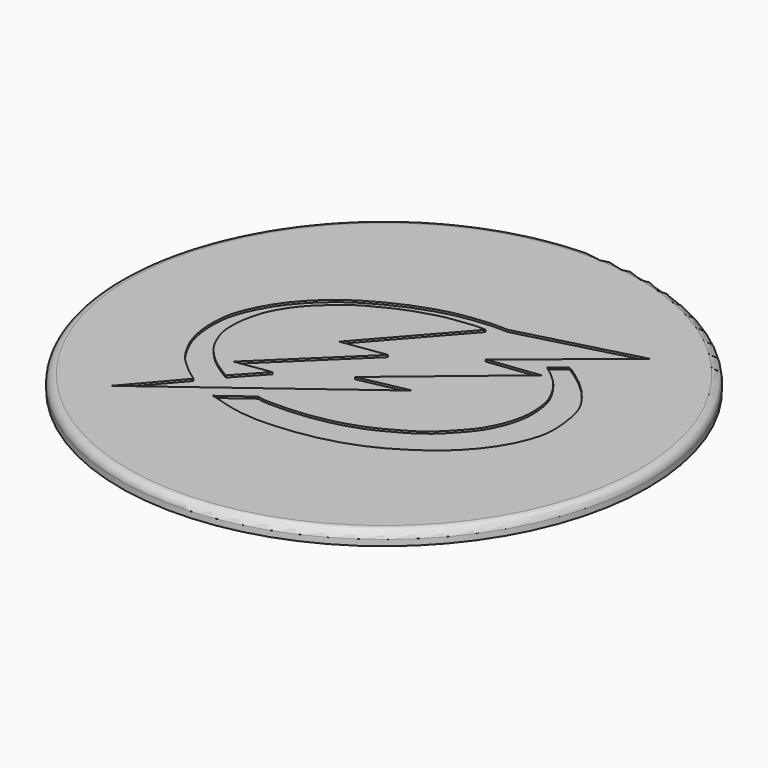
from build123d import *

# Parameters (mm, degrees)
F0_R     = 66.04
F1_DEPTH = 3.5
F3_DEPTH = 0.5
F4_R     = 2


with BuildPart() as f1:
    # F0 (on Top) → F1 (new body)
    with BuildSketch(Plane.XY):
        Circle(F0_R)
    extrude(amount=F1_DEPTH)

    # F2 (on face) → F3 (cut)
    with BuildSketch(Plane.XY.offset(3.5)):
        with BuildLine():
            Line((36.7589145899, 37.629019469), (7.088160608, 29.8062227666))
            add(Edge.make_bspline(
                [(-27.9188621789, -24.7298497707), (-28.6586928586, -24.2103901464), (-30.4148624686, -22.977325297), (-34.7839086401, -19.2292372163), (-36.7492639554, -15.8301967621), (-38.5813905625, -12.392258781), (-39.75259532, -7.49957565), (-39.8114737138, -2.8913390892), (-39.4153051917, 1.3872774793), (-37.155174617, 6.8463574778), (-34.2487020488, 11.5543521179), (-30.1449211522, 16.1966267345), (-24.8865606472, 20.5465305085), (-18.820652323, 23.9222079865), (-13.5893033373, 26.3447324713), (-6.2676210393, 28.8086948244), (-0.9973036761, 29.4594702935), (2.8494568659, 29.9332388479), (5.6501959782, 29.8493125043), (7.088160608, 29.8062227666)],
                knots=[0, 0, 0, 0, 0.0451249272, 0.1071150846, 0.1588573068, 0.2095718144, 0.267664136, 0.3232882023, 0.3768767861, 0.4394121671, 0.5007893365, 0.5650325207, 0.6332195526, 0.7010771123, 0.7641179487, 0.8361406793, 0.8960766014, 0.946643309, 1, 1, 1, 1], degree=3))
            Line((-27.9188621789, -24.7298497707), (-38.6472716928, -37.1904484928))
            add(Edge.make_bspline(
                [(8.680658415, -1.9040451152), (-7.0953182876, -13.6661795744), (-22.8712949902, -25.4283140336), (-38.6472716928, -37.1904484928)],
                knots=[0, 0, 0, 0, 59.0344241236, 59.0344241236, 59.0344241236, 59.0344241236], degree=3))
            Line((8.680658415, -1.9040451152), (-3.7240635138, -4.4464543462))
            Line((-3.7240635138, -4.4464543462), (24.2703761905, 18.8822448254))
            Line((24.2703761905, 18.8822448254), (11.5583296865, 17.3176843673))
            Line((11.5583296865, 17.3176843673), (36.7589145899, 37.629019469))
        make_face()
        with BuildLine():
            add(Edge.make_bspline(
                [(3.7381993607, 27.1198898554), (2.971135623, 27.1618474152), (1.2947530215, 27.2535437369), (-1.9863245634, 26.752964039), (-5.5830102518, 26.3936384961), (-8.1626603235, 25.6625858195), (-11.8819068257, 24.5992540716), (-15.194299707, 23.2915717189), (-18.3387248736, 21.7834257182), (-22.657889275, 19.4908286459), (-25.3334584396, 17.405984417), (-28.4560760539, 14.5877478565), (-31.1520888031, 11.8106881463), (-33.1981293641, 8.6361921113), (-34.8489244867, 5.4336172817), (-35.6717957614, 1.8976307489), (-36.1212606559, -0.7356813567), (-36.1055273874, -4.9327401117), (-35.284250801, -7.7228924909), (-33.7690554357, -11.151243353), (-31.7825018341, -13.6634363898), (-29.4483207392, -15.9985267381), (-27.0119624763, -17.7648035422), (-25.4106160526, -18.7590652994), (-24.3846229373, -19.3770721413), (-23.8800570369, -19.6809973568)],
                knots=[0, 0, 0, 0, 0.0370080786, 0.0808794576, 0.1262134195, 0.1655943936, 0.2123656254, 0.2575173754, 0.3025728065, 0.3550686508, 0.3996737986, 0.4482930207, 0.4956445603, 0.5418786203, 0.587545708, 0.6324346113, 0.6721602243, 0.720331977, 0.7617849857, 0.8074577834, 0.8504872685, 0.8941300827, 0.9355240772, 0.9682918418, 1, 1, 1, 1], degree=3))
            Line((3.7381993607, 27.1198898554), (-15.5056634386, 5.2878007289))
            Line((-15.5056634386, 5.2878007289), (-4.4998652302, 6.9099701941))
            Line((-4.4998652302, 6.9099701941), (-26.3297446072, -14.188955538))
            Line((-26.3297446072, -14.188955538), (-17.6175478846, -12.9048451781))
            Line((-17.6175478846, -12.9048451781), (-23.8800570369, -19.6809973568))
        make_face(mode=Mode.SUBTRACT)
        with BuildLine():
            add(Edge.make_bspline(
                [(23.0140855235, 22.1223023413), (23.6337480093, 21.7049911427), (25.0817865454, 20.7298107649), (28.3144677633, 17.8145217038), (30.5631850073, 14.3623327366), (31.9299956157, 11.4542653938), (32.4038757117, 8.878719599), (32.7918336503, 5.3554549599), (32.1630546429, 0.8710537681), (30.7342580485, -2.9112662617), (28.7888202269, -6.4806965762), (25.7872064292, -9.7882796528), (23.0901008337, -12.5984417239), (20.3259832239, -14.8008398541), (16.8563718909, -16.7655352132), (12.083012982, -19.4120821964), (6.6545909805, -21.2312151302), (2.6297224287, -22.1259203281), (-2.7686651604, -23.1002452156), (-11.2544630445, -23.2923264004), (-12.8249440359, -22.861325742), (-13.338916935, -22.7202717215)],
                knots=[0, 0, 0, 0, 0.0405040979, 0.0946507106, 0.1480773568, 0.1940198869, 0.2355227836, 0.2842322816, 0.3395597185, 0.3918333536, 0.4440264689, 0.4989766927, 0.5503408725, 0.5986057845, 0.650215388, 0.7114530865, 0.7735610236, 0.8254499534, 0.8879083382, 0.9633156487, 1, 1, 1, 1], degree=3))
            Line((-13.338916935, -22.7202717215), (-20.4509142786, -27.9752481729))
            add(Edge.make_bspline(
                [(-20.4509142786, -27.9752481729), (-18.8172337543, -28.4739563845), (-15.4699105031, -29.4957826029), (-9.8113094816, -30.5934467075), (-3.4476646051, -30.5276095836), (3.8323637699, -29.7792821906), (10.9948418748, -28.1270192234), (18.1616670883, -25.4269070755), (24.9613540992, -21.2618874253), (29.7707603508, -17.7083655535), (34.6400151481, -12.6535211177), (38.1350855825, -7.1300397484), (39.906954757, -2.6337329233), (40.7854535947, 1.4807883485), (40.3205082437, 6.8263907972), (39.2885733015, 12.3641756391), (35.9753768895, 17.0850121131), (32.6981331654, 20.6047877337), (28.1143591936, 23.9871411799), (26.8914743312, 24.6504593747), (26.4487545937, 24.8905997723)],
                knots=[0, 0, 0, 0, 0.0528863325, 0.1083612418, 0.1669825339, 0.2298350138, 0.2928105097, 0.3573840476, 0.4226321743, 0.4795914908, 0.5409064156, 0.6005080495, 0.6510696648, 0.6981285603, 0.7516560544, 0.8069216428, 0.8617149771, 0.914131578, 0.9689131443, 1, 1, 1, 1], degree=3))
            Line((26.4487545937, 24.8905997723), (23.0140855235, 22.1223023413))
        make_face()
    extrude(amount=-F3_DEPTH, mode=Mode.SUBTRACT)

    # F4
    f4_edges = [f1.edges().sort_by_distance(p)[0] for p in [
        (-66.04, 0, 3.5),
    ]]
    fillet(f4_edges, radius=F4_R)


solid = f1.part
